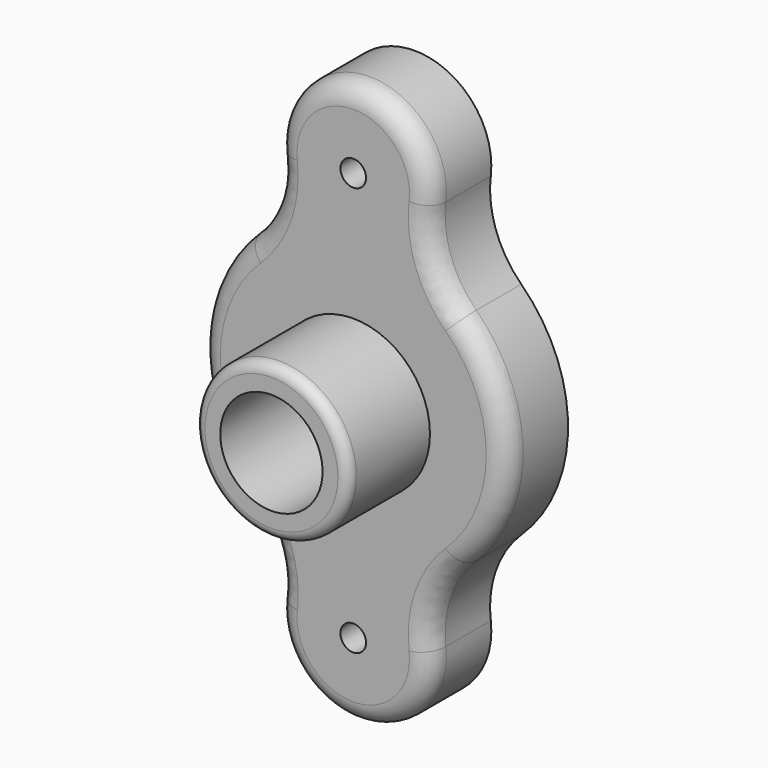
from build123d import *

# Parameters (mm, degrees)
F0_R     = 3.175
F0_R_2   = 12.7
F1_DEPTH = 19.05
F2_R     = 25.4
F3_R     = 5.08
F4_R     = 19.05
F4_R_2   = 12.7
F5_DEPTH = 25.4
F6_R     = 2.54


with BuildPart() as f1:
    # F0 (on Front) → F1 (new body)
    with BuildSketch(Plane.XZ):
        with BuildLine():
            ThreePointArc((12.1355523508, -36.115625), (38.1, 0), (12.1355523508, 36.115625))
            ThreePointArc((12.1355523508, 36.115625), (0, 69.85), (-12.1355523508, 36.115625))
            ThreePointArc((-12.1355523508, 36.115625), (-38.1, 0), (-12.1355523508, -36.115625))
            ThreePointArc((-12.1355523508, -36.115625), (0, -69.85), (12.1355523508, -36.115625))
        make_face()
        with Locations((0, -50.8)):
            Circle(F0_R, mode=Mode.SUBTRACT)
        Circle(F0_R_2, mode=Mode.SUBTRACT)
        with Locations((0, 50.8)):
            Circle(F0_R, mode=Mode.SUBTRACT)
    extrude(amount=F1_DEPTH)

    # F2
    f2_edges = [f1.edges().sort_by_distance(p)[0] for p in [
        (12.135552, -9.525, 36.115625),
        (12.135552, -9.525, -36.115625),
        (-12.135552, -9.525, -36.115625),
        (-12.135552, -9.525, 36.115625),
    ]]
    fillet(f2_edges, radius=F2_R)

    # F3
    f3_edges = [f1.edges().sort_by_distance(p)[0] for p in [
        (-20.227695, -19.05, 37.102211),
    ]]
    fillet(f3_edges, radius=F3_R)

    # F4 (on face) → F5 (join)
    with BuildSketch(Plane.XZ.offset(19.05)):
        Circle(F4_R)
        Circle(F4_R_2, mode=Mode.SUBTRACT)
    extrude(amount=F5_DEPTH)

    # F6
    f6_edges = [f1.edges().sort_by_distance(p)[0] for p in [
        (-19.05, -44.45, 0),
    ]]
    fillet(f6_edges, radius=F6_R)


solid = f1.part
